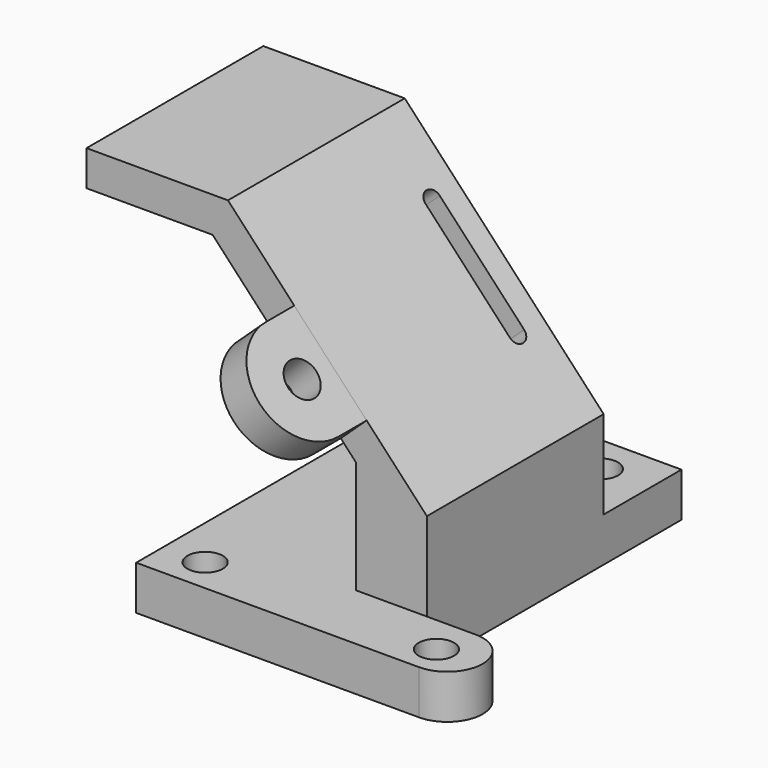
from build123d import *

# Parameters (mm, degrees)
F1_DEPTH  = 5
F3_DEPTH  = 25
F5_R      = 2
F5_W      = 5.9894541353
F5_H      = 11.9529513837
F6_DEPTH  = 4
F8_DEPTH  = 10
F9_R      = 2
F10_DEPTH = 25


with BuildPart() as f1:
    # F0 (on Top) → F1 (new body)
    with BuildSketch(Plane.XY):
        with BuildLine():
            Line((0, 44), (0, 0))
            Line((0, 0), (26.4925560224, 0))
            Line((26.4925560224, 0), (32, 0))
            ThreePointArc((32, 0), (36, 4), (32, 8))
            Line((32, 8), (26.4925560224, 8))
            Line((26.4925560224, 8), (26.4925560224, 44))
            Line((26.4925560224, 44), (0, 44))
        make_face()
    extrude(amount=F1_DEPTH)

    # F2 (on face) → F3 (join)
    with BuildSketch(Plane(origin=(0, 8, 0), x_dir=(-1, 0, 0), z_dir=(0, 1, 0))):
        Polygon((-26.4925560224, 15), (-26.4925560224, 5), (-18.4925560224, 5), (-18.4925560224, 17.7138329376), (-2.2473606405, 35.1346721534), (12.0133898596, 35.1346721534), (12.0133898596, 39.1346721534), (-3.9866101404, 39.1346721534), align=None)
    extrude(amount=F3_DEPTH)

    # F5 (on offset) → F6 (join)
    with BuildSketch(Plane(origin=(21.6520220325, 0, 20.1908371907), x_dir=(0, 1, 0), z_dir=(0.7313537016, 0, 0.6819983601))):
        with BuildLine():
            Line((8, 14.9024257631), (4, 14.9024257631))
            ThreePointArc((4, 14.9024257631), (-2, 8.9024257631), (4, 2.9024257631))
            Line((4, 2.9024257631), (8, 2.9024257631))
            Line((8, 2.9024257631), (8, 2.9494743794))
            Line((8, 2.9494743794), (8, 14.9024257631))
        make_face()
        with Locations((4, 8.9024257631)):
            Circle(F5_R, mode=Mode.SUBTRACT)
        with Locations((10.9947270676, 8.9259500713)):
            Rectangle(F5_W, F5_H)
    extrude(amount=-F6_DEPTH)

    # F7 (on offset) → F8 (cut)
    with BuildSketch(Plane(origin=(21.6520220325, 0, 20.1908371907), x_dir=(0, 1, 0), z_dir=(0.7313537016, 0, 0.6819983601))):
        with BuildLine():
            ThreePointArc((30.2680338025, 16.9024257631), (29.2680338025, 17.9024257631), (28.2680338025, 16.9024257631))
            Line((28.2680338025, 16.9024257631), (28.2680338025, 2.9024257631))
            ThreePointArc((28.2680338025, 2.9024257631), (29.2680338025, 1.9024257631), (30.2680338025, 2.9024257631))
            Line((30.2680338025, 2.9024257631), (30.2680338025, 16.9024257631))
        make_face()
    extrude(amount=-F8_DEPTH, mode=Mode.SUBTRACT)

    # F9 (on Top) → F10 (cut)
    with BuildSketch(Plane.XY):
        with Locations((4.8117552102, 39.6364554763)):
            Circle(F9_R)
        with Locations((20.8117552102, 39.6364554763)):
            Circle(F9_R)
        with Locations((31.0607589781, 3.6364554763)):
            Circle(F9_R)
        with Locations((4.7061769292, 3.8695221301)):
            Circle(F9_R)
    extrude(amount=F10_DEPTH, mode=Mode.SUBTRACT)


solid = f1.part
